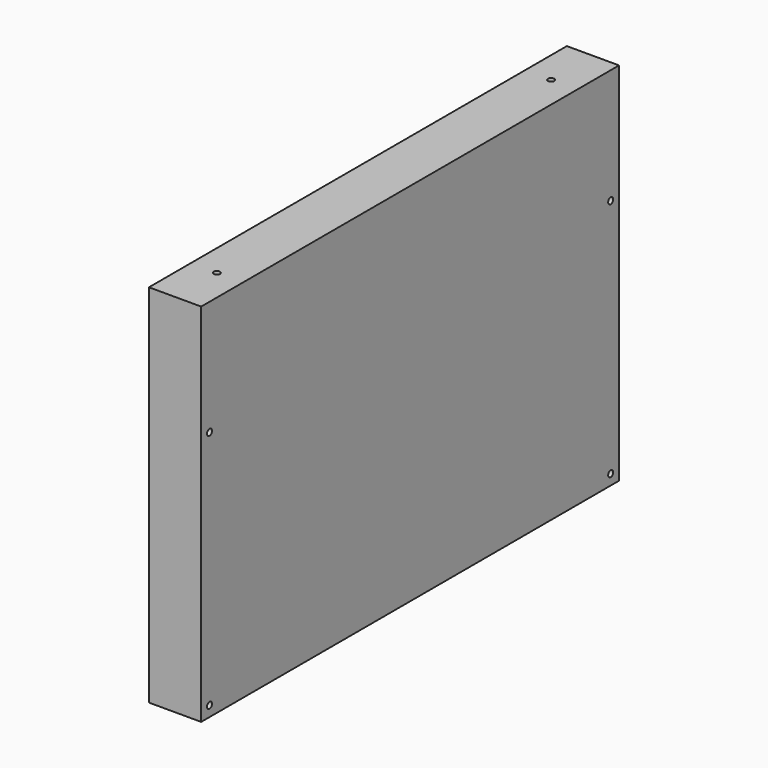
from build123d import *

# Parameters (mm, degrees)
F0_W      = 500
F0_H      = 350
F1_DEPTH  = 50
F2_R      = 3
F3_DEPTH  = 12
F4_DEPTH  = 12
F5_R      = 3
F6_DEPTH  = 12
F7_R      = 3
F8_DEPTH  = 12
F9_R      = 3
F10_DEPTH = 12


with BuildPart() as f1:
    # F0 (on Right) → F1 (new body)
    with BuildSketch(Plane.YZ):
        with Locations((250, 175)):
            Rectangle(F0_W, F0_H)
    extrude(amount=F1_DEPTH)

    # F2 (on face) → F3 (cut)
    with BuildSketch(Plane.XY.offset(350)):
        with Locations((25, 50)):
            Circle(F2_R)
    extrude(amount=-F3_DEPTH, mode=Mode.SUBTRACT)

    # F2 (on face) → F4 (cut)
    with BuildSketch(Plane.XY.offset(350)):
        with Locations((25, 450)):
            Circle(F2_R)
    extrude(amount=-F4_DEPTH, mode=Mode.SUBTRACT)

    # F5 (on face) → F6 (cut)
    with BuildSketch(Plane.YZ.offset(50)):
        with Locations((10, 240)):
            Circle(F5_R)
        with Locations((10, 10)):
            Circle(F5_R)
    extrude(amount=-F6_DEPTH, mode=Mode.SUBTRACT)

    # F7 (on face) → F8 (cut)
    with BuildSketch(Plane.YZ.offset(50)):
        with Locations((490, 240)):
            Circle(F7_R)
        with Locations((490, 10)):
            Circle(F7_R)
    extrude(amount=-F8_DEPTH, mode=Mode.SUBTRACT)

    # F9 (on face) → F10 (cut)
    with BuildSketch(Plane(origin=(0, 0, 0), x_dir=(1, 0, 0), z_dir=(0, 0, -1))):
        with Locations((25, -25)):
            Circle(F9_R)
        with Locations((25, -475)):
            Circle(F9_R)
    extrude(amount=-F10_DEPTH, mode=Mode.SUBTRACT)


solid = f1.part
